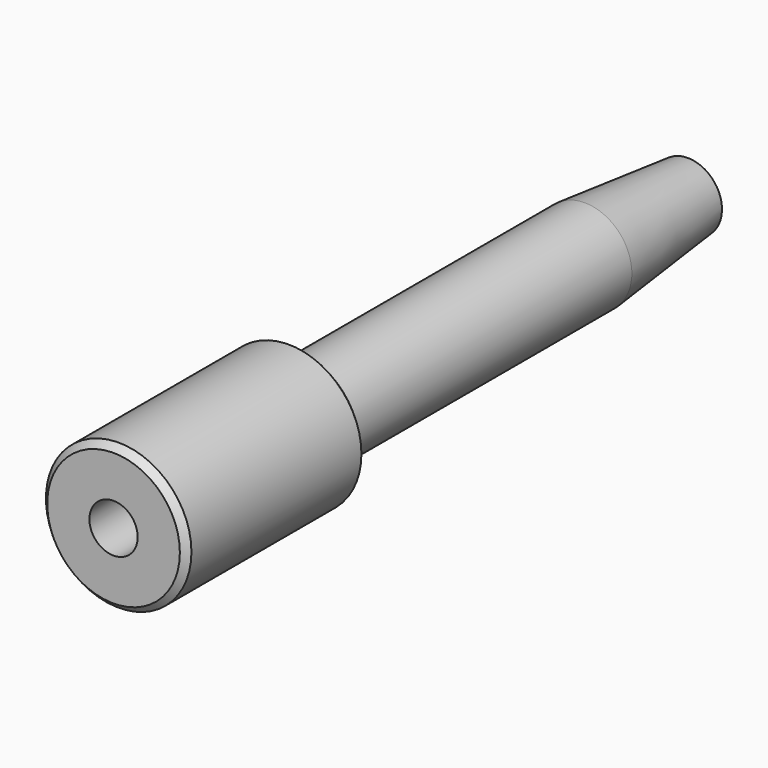
from build123d import *

# Parameters (mm, degrees)
F0_R     = 11.3
F1_DEPTH = 35
F2_SIZE  = 1
F3_R     = 7.3
F4_DEPTH = 76.5
F5_SIZE2 = 20
F5_SIZE  = 2
F6_R     = 3.75
F7_DEPTH = 111.501
F8_SIZE  = 1


with BuildPart() as f1:
    # F0 (on Front) → F1 (new body)
    with BuildSketch(Plane.XZ):
        Circle(F0_R)
    extrude(amount=-F1_DEPTH)

    # F2
    f2_edges = [f1.edges().sort_by_distance(p)[0] for p in [
        (-11.3, 0, 0),
    ]]
    chamfer(f2_edges, length=F2_SIZE)

    # F3 (on face) → F4 (join)
    with BuildSketch(Plane(origin=(0, 35, 0), x_dir=(-1, 0, 0), z_dir=(0, 1, 0))):
        Circle(F3_R)
    extrude(amount=F4_DEPTH)

    # F5
    f5_edges = [f1.edges().sort_by_distance(p)[0] for p in [
        (7.3, 111.5, 0),
    ]]
    f5_side = f1.faces().sort_by_distance((0, 111.5, 0))[0]
    chamfer(f5_edges, length=F5_SIZE, length2=F5_SIZE2, reference=f5_side)

    # F6 (on face) → F7 (cut, through all)
    with BuildSketch(Plane.XZ):
        Circle(F6_R)
    extrude(amount=-F7_DEPTH, mode=Mode.SUBTRACT)

    # F8
    f8_edges = [f1.edges().sort_by_distance(p)[0] for p in [
        (-11.3, 35, 0),
    ]]
    chamfer(f8_edges, length=F8_SIZE)


solid = f1.part
